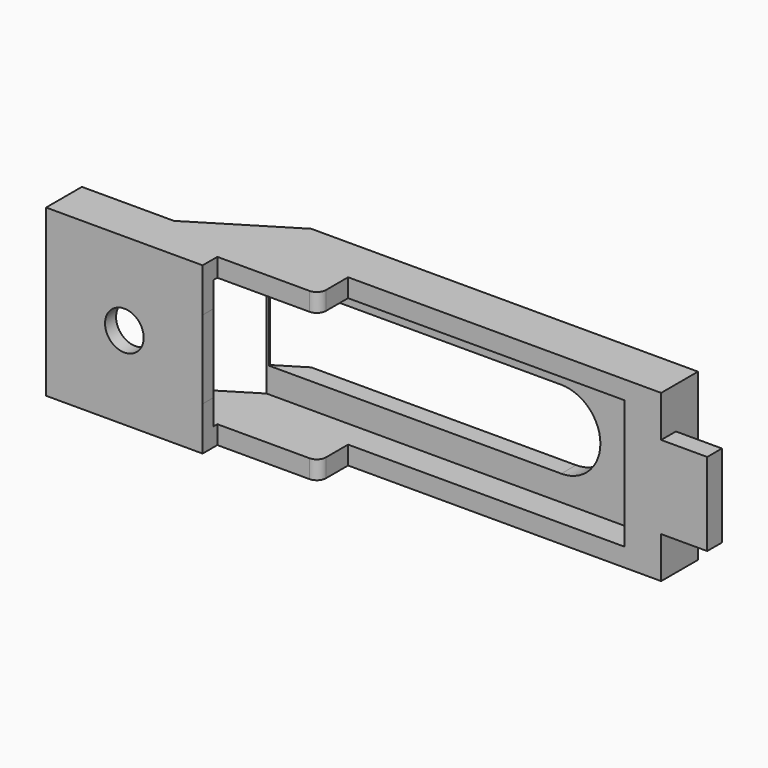
from build123d import *

# Parameters (mm, degrees)
F1_DEPTH = 9
F0_W     = 5
F0_H     = 2
F2_DEPTH = 4.5
F3_R     = 2.1
F4_DEPTH = 11.001
F6_DEPTH = 11.001
F7_W     = 4.139266
F7_H     = 14
F7_W_2   = 3.360734
F8_DEPTH = 58
F9_R     = 1


with BuildPart() as f1:
    # F0 (on Top) → F1 (new body, symmetric)
    with BuildSketch(Plane.XY):
        Polygon((-49.633269, 10.227227), (-49.633269, 5.366493), (-32.633269, 5.366493), (-32.633269, 7.366493), (-21.633269, 7.366493), (-21.633269, 11.366493), (12.366731, 11.366493), (12.366731, 13.366493), (12.366731, 16.366493), (-29.633269, 16.366493), (-39.633269, 10.227227), align=None)
    extrude(amount=F1_DEPTH, both=True)

    # F0 (on Top) → F2 (join, symmetric)
    with BuildSketch(Plane.XY):
        with Locations((14.866731, 12.366493)):
            Rectangle(F0_W, F0_H)
    extrude(amount=F2_DEPTH, both=True)

    # F3 (on face) → F4 (cut, through all)
    with BuildSketch(Plane.XZ.offset(-5.366493)):
        with Locations((-41.133269, 0)):
            Circle(F3_R)
    extrude(amount=-F4_DEPTH, mode=Mode.SUBTRACT)

    # F5 (on face) → F6 (cut, through all)
    with BuildSketch(Plane(origin=(0, 16.366493, 0), x_dir=(-1, 0, 0), z_dir=(0, 1, 0))):
        with BuildLine():
            ThreePointArc((0.883269, 4.25), (-3.366731, 0), (0.883269, -4.25))
            Line((0.883269, -4.25), (29.534266, -4.25))
            Line((29.534266, -4.25), (29.633269, -4.25))
            Line((29.633269, -4.25), (29.633269, 4.25))
            Line((29.633269, 4.25), (29.534266, 4.25))
            Line((29.534266, 4.25), (0.883269, 4.25))
        make_face()
        Polygon((29.633269, 4.25), (29.633269, -4.25), (32.633269, -4.25), (32.642357, 4.25), align=None)
    extrude(amount=-F6_DEPTH, mode=Mode.SUBTRACT)

    # F7 (on face) → F8 (cut)
    with BuildSketch(Plane(origin=(-49.633269, 0, 0), x_dir=(0, -1, 0), z_dir=(-1, 0, 0))):
        with Locations((-12.29686, 0)):
            Rectangle(F7_W, F7_H)
        with Locations((-8.54686, 0)):
            Rectangle(F7_W_2, F7_H)
    extrude(amount=-F8_DEPTH, mode=Mode.SUBTRACT)

    # F9
    f9_edges = [f1.edges().sort_by_distance(p)[0] for p in [
        (-21.633269, 7.366493, 8),
        (-21.633269, 7.366493, -8),
    ]]
    fillet(f9_edges, radius=F9_R)


solid = f1.part
